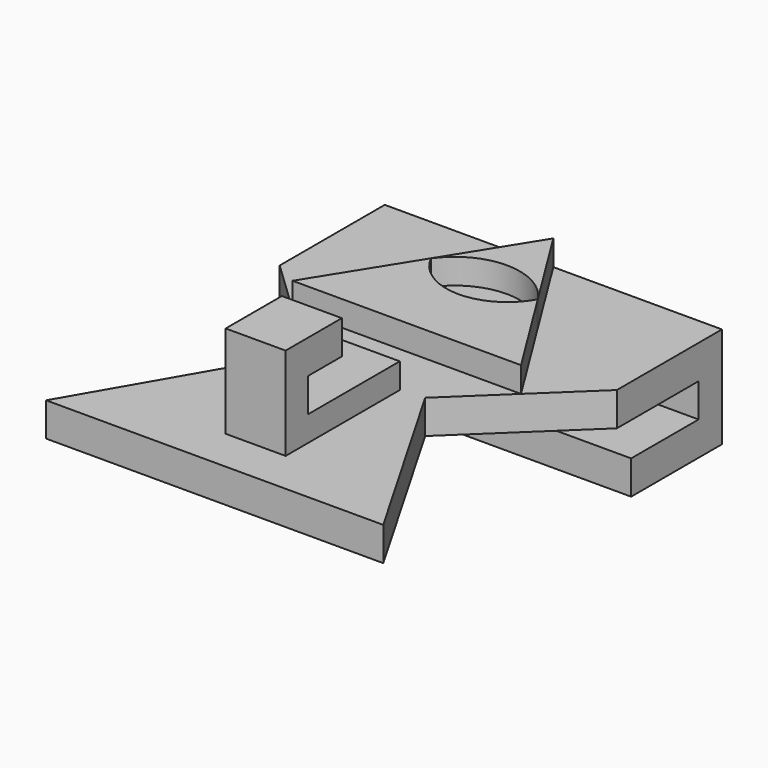
from build123d import *

# Parameters (mm, degrees)
F1_DEPTH  = 4
F2_W      = 40
F2_H      = 3.4614801407
F3_DEPTH  = 8
F4_W      = 40
F4_H      = 4
F5_DEPTH  = 10
F6_W      = 7.1115158498
F6_H      = 16.9303966686
F7_DEPTH  = 3
F8_W      = 7.1115158498
F8_H      = 3.3362442628
F9_DEPTH  = 8
F10_W     = 7.1115158498
F10_H     = 4
F11_DEPTH = 5
F13_DEPTH = 3


with BuildPart() as f1:
    # F0 (on Top) → F1 (new body)
    with BuildSketch(Plane.XY):
        Polygon((-40, 0), (0, 0), (-12.8963018344, 22.337050007), (0, 34.6410161514), (0, 50.2190850675), (-40, 50.2190850675), (-40, 34.6410161514), (-27.1036981656, 22.337050007), align=None)
    extrude(amount=F1_DEPTH)

    # F2 (on face) → F3 (join)
    with BuildSketch(Plane(origin=(0, 0, 0), x_dir=(1, 0, 0), z_dir=(0, 0, -1))):
        with Locations((-20, -48.4883449972)):
            Rectangle(F2_W, F2_H)
    extrude(amount=F3_DEPTH)

    # F4 (on face) → F5 (join)
    with BuildSketch(Plane.XZ.offset(-46.7576049268)):
        with Locations((-20, -6)):
            Rectangle(F4_W, F4_H)
    extrude(amount=F5_DEPTH)

    # F6 (on face) → F7 (join)
    with BuildSketch(Plane.XY.offset(4)):
        with Locations((-19.2582923919, 13.6125446297)):
            Rectangle(F6_W, F6_H)
    extrude(amount=F7_DEPTH)

    # F8 (on face) → F9 (join)
    with BuildSketch(Plane.XY.offset(7)):
        with Locations((-19.2582923919, 6.8154684268)):
            Rectangle(F8_W, F8_H)
    extrude(amount=F9_DEPTH)

    # F10 (on face) → F11 (join)
    with BuildSketch(Plane(origin=(0, 8.4835905582, 0), x_dir=(-1, 0, 0), z_dir=(0, 1, 0))):
        with Locations((19.2582923919, 13)):
            Rectangle(F10_W, F10_H)
    extrude(amount=F11_DEPTH)

    # F12 (on face) → F13 (join)
    with BuildSketch(Plane.XY.offset(4)):
        Polygon((-20, 50.2190850675), (-26.4434188207, 39.887223703), (-26.5116588016, 39.7778025957), (-26.7759245414, 39.3540590733), (-33.5518490828, 28.4890330792), (-6.4481509172, 28.4890330792), (-13.2240754586, 39.3540590733), (-13.4883411984, 39.7778025957), align=None)
        with BuildLine():
            ThreePointArc((-26.3472255319, 40.0048010051), (-19.8613519763, 43.32080982), (-13.4933032095, 39.7838018835))
            ThreePointArc((-13.4933032095, 39.7838018835), (-19.9874553417, 35.9862880757), (-26.3472255319, 40.0048010051))
        make_face(mode=Mode.SUBTRACT)
        Polygon((-20, 50.2190850675), (-26.4434188207, 39.887223703), (-26.5116588016, 39.7778025957), (-26.7759245414, 39.3540590733), (-33.5518490828, 28.4890330792), (-6.4481509172, 28.4890330792), (-13.2240754586, 39.3540590733), (-13.4883411984, 39.7778025957), align=None)
        with BuildLine():
            ThreePointArc((-26.3472255319, 40.0048010051), (-19.8613519763, 43.32080982), (-13.4933032095, 39.7838018835))
            ThreePointArc((-13.4933032095, 39.7838018835), (-19.9874553417, 35.9862880757), (-26.3472255319, 40.0048010051))
        make_face(mode=Mode.SUBTRACT)
    extrude(amount=F13_DEPTH)


solid = f1.part
